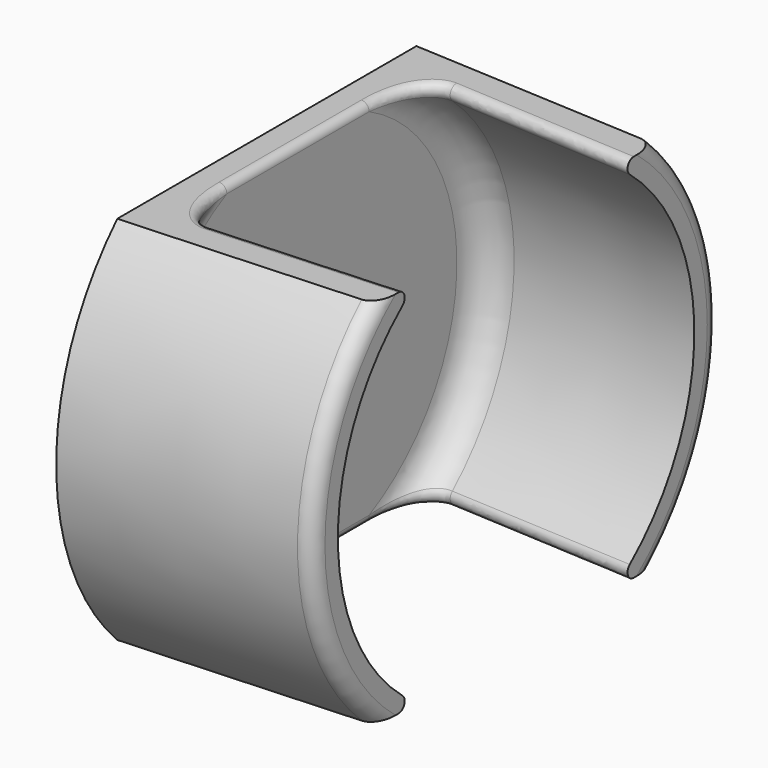
from build123d import *

# Parameters (mm, degrees)
SKETCH001_R  = 2.5
SKETCH001_W  = 24
SKETCH001_H  = 5
POCKET_DEPTH = 16.001
FILLET_R     = 2
FILLET001_R  = 0.5
FILLET002_R  = 1


with BuildPart() as part:
    # Sketch → Revolution (revolve)
    with BuildSketch(Plane.XY):
        Polygon((1, 0), (-1, 0), (-1, 16.9), (15, 16.3), (15, 14.3), (1, 14.825), align=None)
    revolve(axis=Axis((0, 0, 0), (1, 0, 0)))

    # Sketch001 (on Face1 of Revolution) → Pocket (cut, through all)
    with BuildSketch(Plane(origin=(-1, 0, 0), x_dir=(0, -1, 0), z_dir=(-1, 0, 0))):
        Circle(SKETCH001_R)
        with Locations((0, 14.4)):
            Rectangle(SKETCH001_W, SKETCH001_H)
        with Locations((0, -14.4)):
            Rectangle(SKETCH001_W, SKETCH001_H)
    extrude(amount=-POCKET_DEPTH, mode=Mode.SUBTRACT)

    # Fillet
    fillet_edges = [part.edges().sort_by_distance(p)[0] for p in [
        (1, 13.244897, -6.659829),
        (1, 13.244897, 6.659829),
        (1, -14.825, 0),
    ]]
    fillet(fillet_edges, radius=FILLET_R)

    # Fillet001
    fillet001_edges = [part.edges().sort_by_distance(p)[0] for p in [
        (9.037875, 8.326126, 11.9),
        (9.037875, -8.326126, 11.9),
        (9.037875, -8.326126, -11.9),
        (9.037875, 8.326126, -11.9),
    ]]
    fillet(fillet001_edges, radius=FILLET001_R)

    # Fillet002
    fillet002_edges = [part.edges().sort_by_distance(p)[0] for p in [
        (15, -16.3, 0),
        (15, 14.954224, 6.485458),
        (15, 14.954224, -6.485458),
    ]]
    fillet(fillet002_edges, radius=FILLET002_R)


solid = part.part
